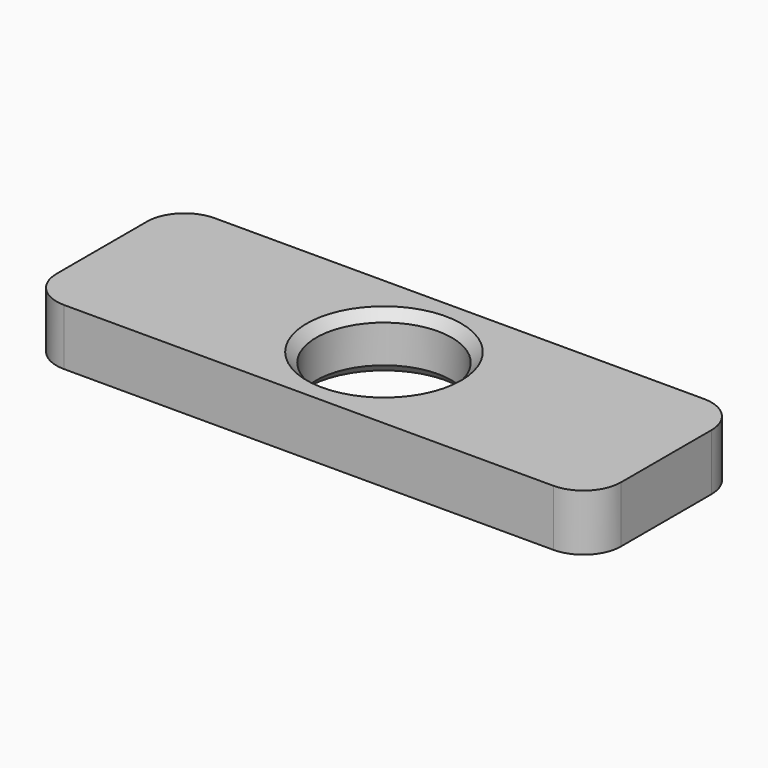
from build123d import *

# Parameters (mm, degrees)
F0_W     = 300
F0_H     = 100
F0_R     = 36.023604
F1_DEPTH = 30
F2_R     = 20
F3_SIZE  = 5


with BuildPart() as f1:
    # F0 (on Top) → F1 (new body)
    with BuildSketch(Plane.XY):
        Rectangle(F0_W, F0_H)
        Circle(F0_R, mode=Mode.SUBTRACT)
    extrude(amount=F1_DEPTH)

    # F2
    f2_edges = [f1.edges().sort_by_distance(p)[0] for p in [
        (150, -50, 15),
        (150, 50, 15),
        (-150, -50, 15),
        (-150, 50, 15),
    ]]
    fillet(f2_edges, radius=F2_R)

    # F3
    f3_edges = [f1.edges().sort_by_distance(p)[0] for p in [
        (-36.023604, 0, 30),
        (-36.023604, 0, 0),
    ]]
    chamfer(f3_edges, length=F3_SIZE)


solid = f1.part
